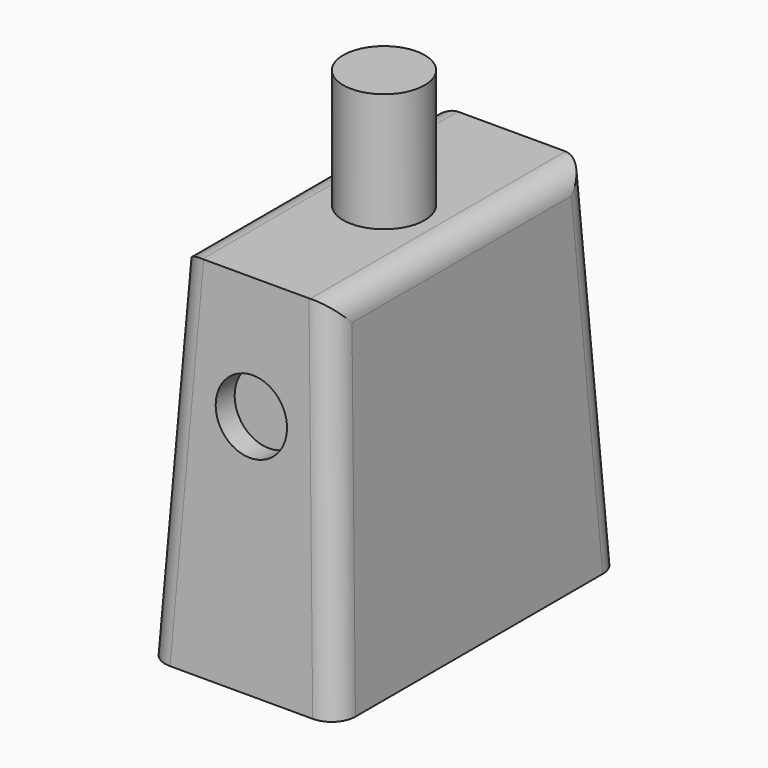
from build123d import *

# Parameters (mm, degrees)
F0_W     = 8
F0_H     = 15
F1_DEPTH = 15
F1_TAPER = 3
F2_R     = 1.7138833108
F3_DEPTH = 5
F4_R     = 1.5
F5_DEPTH = 1
F6_R     = 1.5
F7_DEPTH = 1
F8_R     = 1


with BuildPart() as f1:
    # F0 (on Top) → F1 (new body)
    with BuildSketch(Plane.XY):
        Rectangle(F0_W, F0_H)
    extrude(amount=F1_DEPTH, taper=F1_TAPER)

    # F2 (on face) → F3 (join)
    with BuildSketch(Plane.XY.offset(15)):
        Circle(F2_R)
    extrude(amount=F3_DEPTH)

    # F4 (on face) → F5 (cut)
    with BuildSketch(Plane(origin=(0, 7.4794571076, 0.3919817373), x_dir=(-1, 0, 0), z_dir=(0, 0.9986295348, 0.0523359562))):
        with Locations((0, 9.6280655181)):
            Circle(F4_R)
    extrude(amount=-F5_DEPTH, mode=Mode.SUBTRACT)

    # F6 (on face) → F7 (cut)
    with BuildSketch(Plane(origin=(0, -7.4794571076, 0.3919817373), x_dir=(1, 0, 0), z_dir=(0, -0.9986295348, 0.0523359562))):
        with Locations((0, 9.6280655181)):
            Circle(F6_R)
    extrude(amount=-F7_DEPTH, mode=Mode.SUBTRACT)

    # F8
    f8_edges = [f1.edges().sort_by_distance(p)[0] for p in [
        (-3.213883, 0, 15),
        (-3.606942, 7.106942, 7.5),
        (-3.606942, -7.106942, 7.5),
        (3.213883, 0, 15),
        (3.606942, -7.106942, 7.5),
        (3.606942, 7.106942, 7.5),
    ]]
    fillet(f8_edges, radius=F8_R)


solid = f1.part
